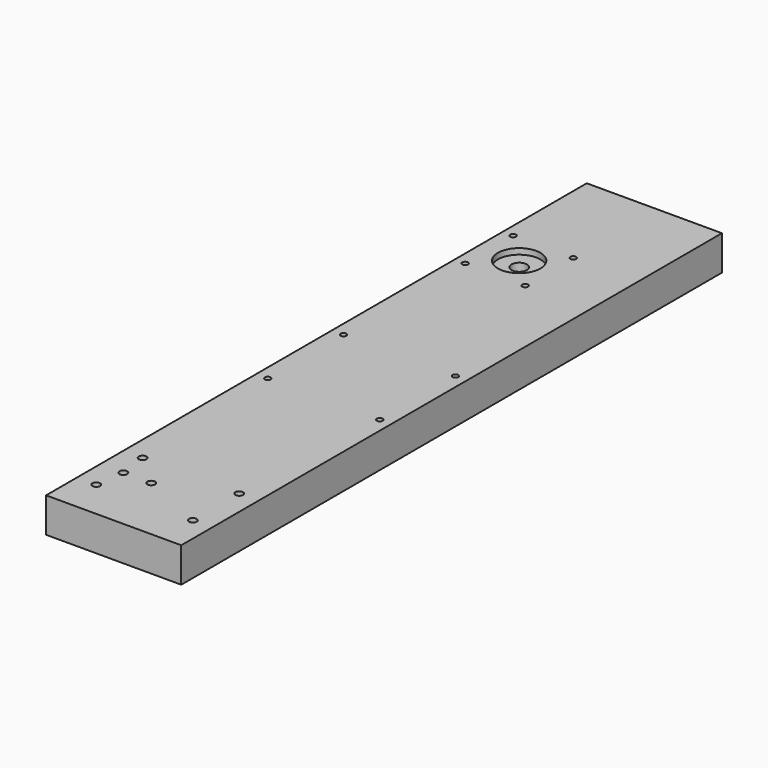
from build123d import *

# Parameters (mm, degrees)
CYLINDER015_R            = 3
CYLINDER015_DEPTH        = 4
ARRAY002_COUNT           = 4
ARRAY002_PLACEMENT_ANGLE = 45
CYLINDER014_R            = 4
CYLINDER014_DEPTH        = 10
ARRAY001_Y_COUNT         = 2
ARRAY001_Y_PITCH         = 80
CYLINDER011_R            = 4
CYLINDER011_DEPTH        = 25
CYLINDER012_R            = 11
CYLINDER012_DEPTH        = 10
CYLINDER013_R            = 11
CYLINDER013_DEPTH        = 4
CYLINDER010_R            = 1.5
CYLINDER010_DEPTH        = 25
ARRAY_COUNT              = 4
ARRAY_PLACEMENT_ANGLE    = 45
CYLINDER008_R            = 1.5
CYLINDER008_DEPTH        = 25
CYLINDER007_R            = 1.5
CYLINDER007_DEPTH        = 25
CYLINDER006_R            = 1.5
CYLINDER006_DEPTH        = 25
CYLINDER009_R            = 1.5
CYLINDER009_DEPTH        = 25
CYLINDER003_R            = 2
CYLINDER003_DEPTH        = 25
CYLINDER004_R            = 2
CYLINDER004_DEPTH        = 25
CYLINDER002_R            = 2
CYLINDER002_DEPTH        = 25
CYLINDER001_R            = 2
CYLINDER001_DEPTH        = 25
CYLINDER_R               = 2
CYLINDER_DEPTH           = 25
CYLINDER005_R            = 2
CYLINDER005_DEPTH        = 25
BOX_W                    = 70
BOX_H                    = 350
BOX_DEPTH                = 18


with BuildPart() as array002:
    # Cylinder015 → Cylinder015 (new body)
    with BuildSketch(Plane(origin=(22, 0, 0), x_dir=(1, 0, 0), z_dir=(0, 0, 1))):
        Circle(CYLINDER015_R)
    extrude(amount=CYLINDER015_DEPTH)

    # Array002: Array002 ×4 about axis
    array002_axis = Axis((0, 0, 0), (0, 0, 1))


with BuildPart() as array002_1:
    add(array002.part)
    for i in range(1, ARRAY002_COUNT):
        add(array002.part.rotate(array002_axis, i * 360 / ARRAY002_COUNT))


with BuildPart() as array002_2:
    # Array002 placement: moved
    add(array002_1.part.moved(Location((21, 280, 0))).rotate(Axis((21, 280, 0), (0, 0, 1)), ARRAY002_PLACEMENT_ANGLE))


with BuildPart() as array001:
    # Cylinder014 → Cylinder014 (new body)
    with BuildSketch(Plane.XY):
        Circle(CYLINDER014_R)
    extrude(amount=CYLINDER014_DEPTH)

    # Array001 Y: Array001 ×2


with BuildPart() as array001_1:
    add(array001.part)
    with Locations(*[(0, i * ARRAY001_Y_PITCH, 0) for i in range(1, ARRAY001_Y_COUNT)]):
        add(array001.part)


with BuildPart() as array001_2:
    # Array001 placement: moved
    add(array001_1.part.moved(Location((21, 240, 0))))


with BuildPart() as cilindro011:
    # Cylinder011 → Cylinder011 (new body)
    with BuildSketch(Plane.XY):
        Circle(CYLINDER011_R)
    extrude(amount=CYLINDER011_DEPTH)


with BuildPart() as cilindro012:
    # Cylinder012 → Cylinder012 (new body)
    with BuildSketch(Plane.XY.offset(15)):
        Circle(CYLINDER012_R)
    extrude(amount=CYLINDER012_DEPTH)


with BuildPart() as fusion002:
    # Cylinder013 → Cylinder013 (new body)
    with BuildSketch(Plane.XY):
        Circle(CYLINDER013_R)
    extrude(amount=CYLINDER013_DEPTH)

    # Fusion002: union Cilindro011, Cilindro012
    add(cilindro011.part)
    add(cilindro012.part)


with BuildPart() as fusion002_1:
    # Fusion002 placement: moved
    add(fusion002.part.moved(Location((21, 280, 0))))


with BuildPart() as array:
    # Cylinder010 → Cylinder010 (new body)
    with BuildSketch(Plane(origin=(22, 0, 0), x_dir=(1, 0, 0), z_dir=(0, 0, 1))):
        Circle(CYLINDER010_R)
    extrude(amount=CYLINDER010_DEPTH)

    # Array: Array ×4 about axis
    array_axis = Axis((0, 0, 0), (0, 0, 1))


with BuildPart() as array_1:
    add(array.part)
    for i in range(1, ARRAY_COUNT):
        add(array.part.rotate(array_axis, i * 360 / ARRAY_COUNT))


with BuildPart() as array_2:
    # Array placement: moved
    add(array_1.part.moved(Location((21, 280, 0))).rotate(Axis((21, 280, 0), (0, 0, 1)), ARRAY_PLACEMENT_ANGLE))


with BuildPart() as cilindro008:
    # Cylinder008 → Cylinder008 (new body)
    with BuildSketch(Plane(origin=(6, 185, 0), x_dir=(1, 0, 0), z_dir=(0, 0, 1))):
        Circle(CYLINDER008_R)
    extrude(amount=CYLINDER008_DEPTH)


with BuildPart() as cilindro007:
    # Cylinder007 → Cylinder007 (new body)
    with BuildSketch(Plane(origin=(6, 136, 0), x_dir=(1, 0, 0), z_dir=(0, 0, 1))):
        Circle(CYLINDER007_R)
    extrude(amount=CYLINDER007_DEPTH)


with BuildPart() as cilindro006:
    # Cylinder006 → Cylinder006 (new body)
    with BuildSketch(Plane(origin=(64, 136, 0), x_dir=(1, 0, 0), z_dir=(0, 0, 1))):
        Circle(CYLINDER006_R)
    extrude(amount=CYLINDER006_DEPTH)


with BuildPart() as fusion001:
    # Cylinder009 → Cylinder009 (new body)
    with BuildSketch(Plane(origin=(64, 185, 0), x_dir=(1, 0, 0), z_dir=(0, 0, 1))):
        Circle(CYLINDER009_R)
    extrude(amount=CYLINDER009_DEPTH)

    # Fusion001: union Cilindro008, Cilindro007, Cilindro006
    add(cilindro008.part)
    add(cilindro007.part)
    add(cilindro006.part)


with BuildPart() as cilindro003:
    # Cylinder003 → Cylinder003 (new body)
    with BuildSketch(Plane(origin=(60, 50, 0), x_dir=(1, 0, 0), z_dir=(0, 0, 1))):
        Circle(CYLINDER003_R)
    extrude(amount=CYLINDER003_DEPTH)


with BuildPart() as cilindro004:
    # Cylinder004 → Cylinder004 (new body)
    with BuildSketch(Plane(origin=(12, 35, 0), x_dir=(1, 0, 0), z_dir=(0, 0, 1))):
        Circle(CYLINDER004_R)
    extrude(amount=CYLINDER004_DEPTH)


with BuildPart() as cilindro002:
    # Cylinder002 → Cylinder002 (new body)
    with BuildSketch(Plane(origin=(10, 50, 0), x_dir=(1, 0, 0), z_dir=(0, 0, 1))):
        Circle(CYLINDER002_R)
    extrude(amount=CYLINDER002_DEPTH)


with BuildPart() as cilindro001:
    # Cylinder001 → Cylinder001 (new body)
    with BuildSketch(Plane(origin=(60, 20, 0), x_dir=(1, 0, 0), z_dir=(0, 0, 1))):
        Circle(CYLINDER001_R)
    extrude(amount=CYLINDER001_DEPTH)


with BuildPart() as cilindro:
    # Cylinder → Cylinder (new body)
    with BuildSketch(Plane(origin=(10, 20, 0), x_dir=(1, 0, 0), z_dir=(0, 0, 1))):
        Circle(CYLINDER_R)
    extrude(amount=CYLINDER_DEPTH)


with BuildPart() as fusion:
    # Cylinder005 → Cylinder005 (new body)
    with BuildSketch(Plane(origin=(26.5, 35, 0), x_dir=(1, 0, 0), z_dir=(0, 0, 1))):
        Circle(CYLINDER005_R)
    extrude(amount=CYLINDER005_DEPTH)

    # Fusion: union Cilindro003, Cilindro004, Cilindro002, Cilindro001, Cilindro
    add(cilindro003.part)
    add(cilindro004.part)
    add(cilindro002.part)
    add(cilindro001.part)
    add(cilindro.part)


with BuildPart() as cut005:
    # Box → Box (new body)
    with BuildSketch(Plane.XY):
        with Locations((35, 175)):
            Rectangle(BOX_W, BOX_H)
    extrude(amount=BOX_DEPTH)

    # Cut: cut Fusion
    add(fusion.part, mode=Mode.SUBTRACT)

    # Cut001: cut Fusion001
    add(fusion001.part, mode=Mode.SUBTRACT)

    # Cut002: cut Array
    add(array_2.part, mode=Mode.SUBTRACT)

    # Cut003: cut Fusion002
    add(fusion002_1.part, mode=Mode.SUBTRACT)

    # Cut004: cut Array001
    add(array001_2.part, mode=Mode.SUBTRACT)

    # Cut005: cut Array002
    add(array002_2.part, mode=Mode.SUBTRACT)


solid = cut005.part
